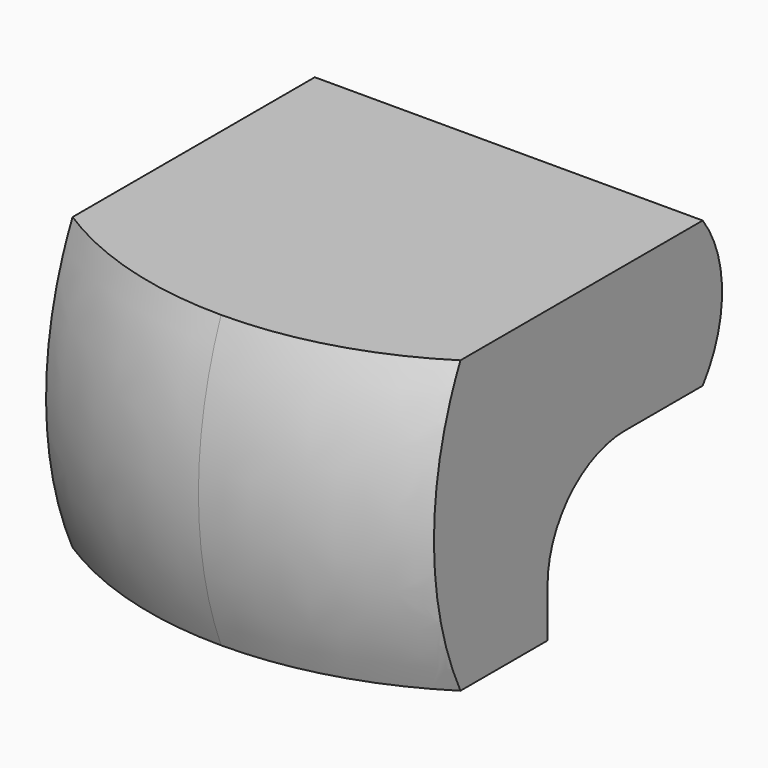
from build123d import *

# Parameters (mm, degrees)
F0_W     = 101.6
F0_H     = 101.6
F1_DEPTH = 38.1
F4_DEPTH = 50.8
F5_ANGLE = 70
F6_DEPTH = 50.8


with BuildPart() as f1:
    # F0 (on Top) → F1 (new body, symmetric)
    with BuildSketch(Plane.XY):
        Rectangle(F0_W, F0_H)
    extrude(amount=F1_DEPTH, both=True)

    # F3 (on Right) → F4 (cut, symmetric)
    with BuildSketch(Plane.YZ):
        with BuildLine():
            Line((0, -25.4), (0, -38.1))
            Line((0, -38.1), (50.8, -38.1))
            Line((50.8, -38.1), (50.8, 0))
            Line((50.8, 0), (25.4, 0))
            ThreePointArc((25.4, 0), (7.439488, -7.439488), (0, -25.4))
        make_face()
    extrude(amount=F4_DEPTH, both=True, mode=Mode.SUBTRACT)

    # F3 (on Right) → F5 (revolve, symmetric, cut)
    with BuildSketch(Plane.YZ) as f5_sk:
        with BuildLine():
            ThreePointArc((-43.385721, -38.1), (-50.8, 0), (-43.385721, 38.1))
            Line((-43.385721, 38.1), (-68.785721, 38.1))
            Line((-68.785721, 38.1), (-68.785721, -38.1))
            Line((-68.785721, -38.1), (-43.385721, -38.1))
        make_face()
    revolve(axis=Axis((0, 50.8, 0), (0, 0, -1)), revolution_arc=F5_ANGLE / 2, mode=Mode.SUBTRACT)
    revolve(f5_sk.sketch, axis=Axis((0, 50.8, 0), (0, 0, 1)), revolution_arc=F5_ANGLE / 2, mode=Mode.SUBTRACT)

    # F3 (on Right) → F6 (join, symmetric)
    with BuildSketch(Plane.YZ):
        with BuildLine():
            Line((50.8, 38.1), (50.8, 0))
            ThreePointArc((50.8, 0), (57.15, 19.05), (50.8, 38.1))
        make_face()
    extrude(amount=F6_DEPTH, both=True)


solid = f1.part
